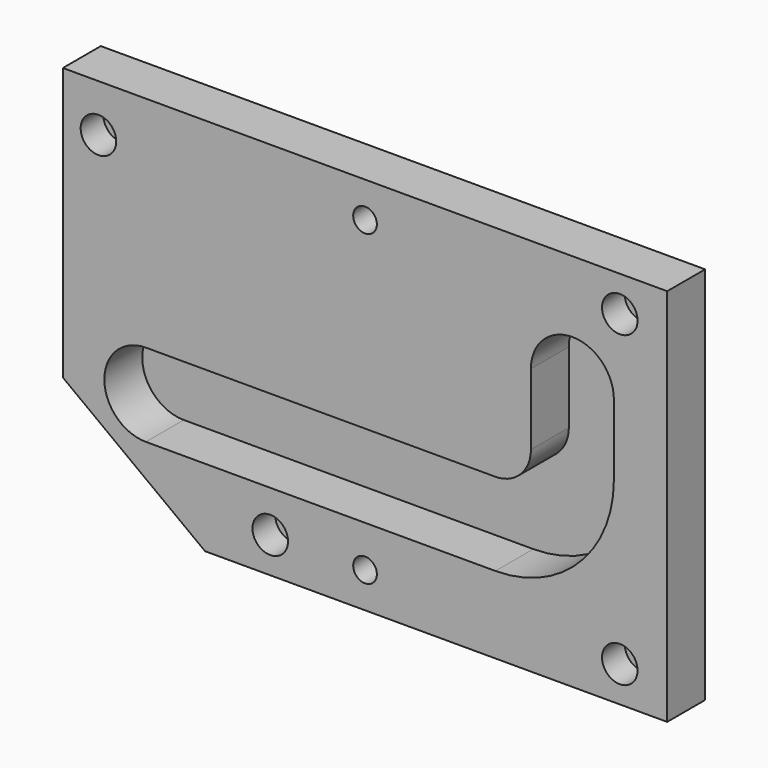
from build123d import *

# Parameters (mm, degrees)
F1_DEPTH = 20
F2_R     = 4.5
F3_DEPTH = 20.001
F2_R_2   = 7.5
F4_DEPTH = 12
F5_D     = 10
F7_DEPTH = 25


with BuildPart() as f1:
    # F0 (on Front) → F1 (new body)
    with BuildSketch(Plane.XZ):
        Polygon((0, 45), (60, 0), (255, 0), (255, 160), (0, 160), align=None)
        with BuildLine():
            ThreePointArc((35, 32.5), (17.5, 50), (35, 67.5))
            Line((35, 67.5), (182.5, 67.5))
            ThreePointArc((182.5, 67.5), (193.106602, 71.893398), (197.5, 82.5))
            Line((197.5, 82.5), (197.5, 112.5))
            ThreePointArc((197.5, 112.5), (215, 130), (232.5, 112.5))
            Line((232.5, 112.5), (232.5, 82.5))
            ThreePointArc((232.5, 82.5), (217.855339, 47.144661), (182.5, 32.5))
            Line((182.5, 32.5), (35, 32.5))
        make_face(mode=Mode.SUBTRACT)
    extrude(amount=F1_DEPTH)

    # F2 (on face) → F3 (cut, through all)
    with BuildSketch(Plane.XZ.offset(20)):
        with Locations((15, 140)):
            Circle(F2_R)
        with Locations((235, 145)):
            Circle(F2_R)
        with Locations((235, 15)):
            Circle(F2_R)
        with Locations((87.5, 15)):
            Circle(F2_R)
    extrude(amount=-F3_DEPTH, mode=Mode.SUBTRACT)

    # F2 (on face) → F4 (cut)
    with BuildSketch(Plane.XZ.offset(20)):
        with Locations((15, 140)):
            Circle(F2_R_2)
        with Locations((15, 140)):
            Circle(F2_R, mode=Mode.SUBTRACT)
        with Locations((235, 145)):
            Circle(F2_R_2)
        with Locations((235, 145)):
            Circle(F2_R, mode=Mode.SUBTRACT)
        with Locations((235, 15)):
            Circle(F2_R_2)
        with Locations((235, 15)):
            Circle(F2_R, mode=Mode.SUBTRACT)
        with Locations((87.5, 15)):
            Circle(F2_R_2)
        with Locations((87.5, 15)):
            Circle(F2_R, mode=Mode.SUBTRACT)
    extrude(amount=-F4_DEPTH, mode=Mode.SUBTRACT)

    # F5 (through all)
    with Locations(Plane.XZ.offset(20)):
        with Locations((127.5, 145), (127.5, 15)):
            Hole(F5_D / 2)


with BuildPart() as f7:
    # F6 (on face) → F7 (new body)
    with BuildSketch(Plane(origin=(0, 0, 0), x_dir=(-1, 0, 0), z_dir=(0, 1, 0))):
        with BuildLine():
            ThreePointArc((-35, 32.5), (-17.5, 50), (-35, 67.5))
            Line((-35, 67.5), (-182.5, 67.5))
            ThreePointArc((-182.5, 67.5), (-193.106602, 71.893398), (-197.5, 82.5))
            Line((-197.5, 82.5), (-197.5, 112.5))
            ThreePointArc((-197.5, 112.5), (-215, 130), (-232.5, 112.5))
            Line((-232.5, 112.5), (-232.5, 82.5))
            ThreePointArc((-232.5, 82.5), (-217.855339, 47.144661), (-182.5, 32.5))
            Line((-182.5, 32.5), (-35, 32.5))
        make_face()
    extrude(amount=F7_DEPTH)


solid = Compound([f1.part, f7.part])
